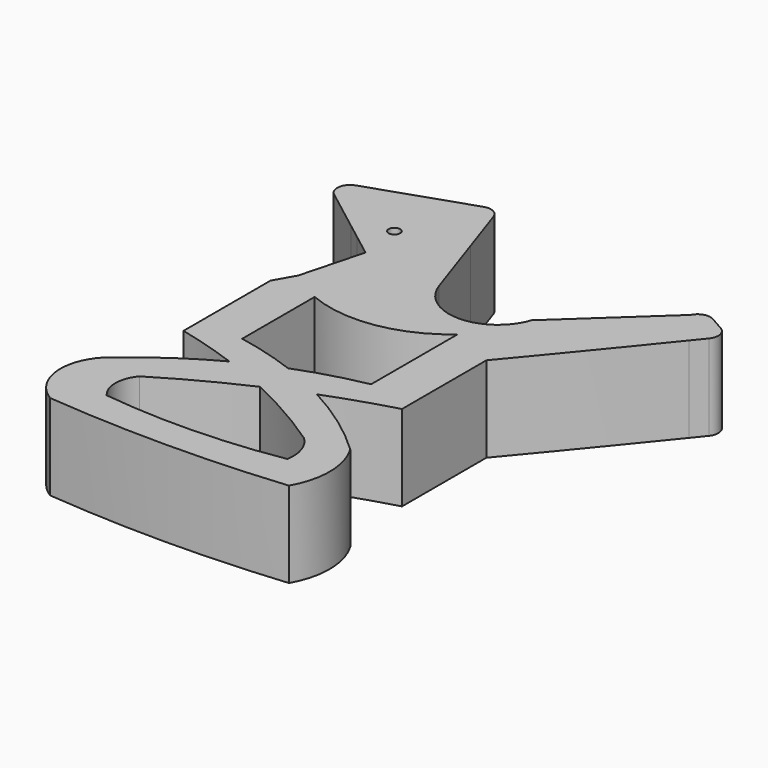
from build123d import *

# Parameters (mm, degrees)
F1_DEPTH = 25.4


with BuildPart() as f1:
    # F0 (on Top) → F1 (new body)
    with BuildSketch(Plane.XY):
        with BuildLine():
            ThreePointArc((-59.1107523799, 49.5368446501), (-61.6481766526, 46.5452847002), (-60.2000903929, 42.8996024515))
            Line((-60.2000903929, 42.8996024515), (-47.3238480687, 33.0717364155))
            Line((-47.3238480687, 33.0717364155), (-38.8923999974, 35.9275490176))
            ThreePointArc((-38.8923999974, 35.9275490176), (-38.5200626671, 38.7717193747), (-36.1004724001, 37.2310951352))
            ThreePointArc((-36.1004724001, 37.2310951352), (-36.1107927824, 37.0440430671), (-36.1416286435, 36.8592617474))
            Line((-36.1416286435, 36.8592617474), (-19.4805414172, 42.5025323296))
            Line((-19.4805414172, 42.5025323296), (-24.4742741518, 57.2459360816))
            ThreePointArc((-24.4742741518, 57.2459360816), (-26.3954934154, 59.4396204364), (-29.3051696679, 59.6322823499))
            Line((-29.3051696679, 59.6322823499), (-59.1107523799, 49.5368446501))
        make_face()
        with BuildLine():
            Line((-38.8923999974, 35.9275490176), (-47.3238480687, 33.0717364155))
            Line((-47.3238480687, 33.0717364155), (-42.6756189918, 29.5239488295))
            Line((-42.6756189918, 29.5239488295), (-17.9241616526, 37.907505627))
            Line((-17.9241616526, 37.907505627), (-19.4805414172, 42.5025323296))
            Line((-19.4805414172, 42.5025323296), (-36.1416286435, 36.8592617474))
            ThreePointArc((-36.1416286435, 36.8592617474), (-37.2552876391, 35.6206883909), (-38.8923999974, 35.9275490176))
        make_face()
        with BuildLine():
            Line((-17.9241616526, 37.907505627), (-42.6756189918, 29.5239488295))
            Line((-42.6756189918, 29.5239488295), (-36.3345149505, 24.6840646871))
            Line((-36.3345149505, 24.6840646871), (-41.3134286256, 5.9786473972))
            ThreePointArc((-41.3134286256, 5.9786473972), (-36.7132008564, 2.606335405), (-31.6395828713, 0))
            ThreePointArc((-31.6395828713, 0), (-12.0320170539, -2.3394482542), (5.8771688615, 5.9786473972))
            Line((5.8771688615, 5.9786473972), (19.1956014543, 0.00967121))
            ThreePointArc((19.1956014543, 0.00967121), (34.4581492923, 18.4761157552), (49.587438224, 37.0518945294))
            Line((49.587438224, 37.0518945294), (41.8655847635, 41.4393103907))
            Line((41.8655847635, 41.4393103907), (38.9125214018, 43.117186965))
            Line((38.9125214018, 43.1171869651), (41.8593864064, 47.2519499851))
            Line((41.8593864064, 47.2519499851), (14.8451968214, 22.2191433988))
            ThreePointArc((14.8451968214, 22.2191433988), (1.1174172166, 12.3750160433), (-12.6103623883, 22.2191433988))
            Line((-12.6103623883, 22.2191433988), (-17.9241616526, 37.907505627))
        make_face()
        with BuildLine():
            ThreePointArc((-31.6395828713, 0), (-36.7132008564, 2.606335405), (-41.3134286256, 5.9786473972))
            Line((-41.3134286256, 5.9786473972), (-44.7103866945, 0))
            Line((-44.7103866945, 0), (-44.7103866945, -32.1961882046))
            ThreePointArc((-44.7103866945, -32.1961882046), (-35.6981979706, -34.6212321144), (-26.8360574654, -37.5474667641))
            ThreePointArc((-26.8360574654, -37.5474667641), (-20.5610394294, -34.4552816286), (-14.112735744, -31.7429321219))
            ThreePointArc((-14.112735744, -31.7429321219), (-22.7734524474, -28.9208943273), (-31.6395828713, -26.8319610022))
            Line((-31.6395828713, -26.8319610022), (-31.6395828713, 0))
        make_face()
        with BuildLine():
            Line((19.1956014543, 0.00967121), (5.8771688615, 5.9786473972))
            Line((5.8771688615, 5.9786473972), (5.8771688615, -26.0057745091))
            ThreePointArc((5.8771688615, -26.0057745091), (-4.2452726756, -28.4301442134), (-14.112735744, -31.7429321219))
            ThreePointArc((-14.112735744, -31.7429321219), (-7.332536937, -34.533476308), (-0.7553169871, -37.7736013745))
            ThreePointArc((-0.7553169871, -37.7736013745), (9.143147591, -34.2583484987), (19.1956014543, -31.2112556035))
            Line((19.1956014543, -31.2112556035), (19.1956014543, 0.00967121))
        make_face()
        Polygon((41.9694184521, 47.4456064242), (41.8593864064, 47.2519499851), (38.9125214018, 43.1171869651), (41.8655847635, 41.4393103907), (45.162112145, 45.4186524008), align=None)
        with BuildLine():
            ThreePointArc((-0.7553169871, -37.7736013745), (-7.332536937, -34.533476308), (-14.112735744, -31.7429321219))
            ThreePointArc((-14.112735744, -31.7429321219), (-20.5610394294, -34.4552816286), (-26.8360574654, -37.5474667641))
            ThreePointArc((-26.8360574654, -37.5474667641), (-20.074389371, -40.1601770998), (-13.4328625364, -43.064747984))
            ThreePointArc((-13.4328625364, -43.064747984), (-7.1346825518, -40.3219146743), (-0.7553169871, -37.7736013745))
        make_face()
        with BuildLine():
            ThreePointArc((-13.4328625364, -43.064747984), (-20.074389371, -40.1601770998), (-26.8360574654, -37.5474667641))
            ThreePointArc((-26.8360574654, -37.5474667641), (-37.8079228806, -44.1596970981), (-47.9927124606, -51.9297345425))
            ThreePointArc((-47.9927124606, -51.9297345425), (-55.1060167541, -64.9103960311), (-47.7461889386, -77.7528882027))
            ThreePointArc((-47.7461889386, -77.7528882027), (-12.4874489881, -79.2604436558), (22.7598436177, -77.5054991245))
            ThreePointArc((22.7598436177, -77.5054991245), (25.753425112, -65.9683634877), (22.5124526769, -54.4982664287))
            ThreePointArc((22.5124526769, -54.4982664287), (11.4306480238, -45.3678662365), (-0.7553169871, -37.7736013745))
            ThreePointArc((-0.7553169871, -37.7736013745), (-7.1346825518, -40.3219146743), (-13.4328625364, -43.064747984))
        make_face()
        with BuildLine():
            ThreePointArc((-38.401431896, -56.3598381515), (-26.127337959, -49.3175486866), (-13.4328625364, -43.064747984))
            ThreePointArc((-13.4328625364, -43.064747984), (-1.1655138535, -49.3811780371), (10.536660869, -56.691734725))
            ThreePointArc((10.536660869, -56.691734725), (13.6866926882, -61.5483388363), (14.1682401614, -67.3169969113))
            ThreePointArc((14.1682401614, -67.3169969113), (-12.073405036, -69.8014865929), (-38.401431896, -68.5241325674))
            ThreePointArc((-38.401431896, -68.5241325674), (-40.6616602948, -62.4419853594), (-38.401431896, -56.3598381515))
        make_face(mode=Mode.SUBTRACT)
        with BuildLine():
            ThreePointArc((47.1642236558, 48.8760605112), (44.2705643123, 49.2367128523), (41.9694184521, 47.4456064242))
            Line((41.9694184521, 47.4456064242), (45.162112145, 45.4186524008))
            Line((45.162112145, 45.4186524008), (52.5536226058, 40.7259842943))
            ThreePointArc((52.5536226058, 40.7259842943), (53.3304416036, 43.828541799), (51.4696137823, 46.4298166105))
            Line((51.4696137823, 46.4298166105), (47.1642236558, 48.8760605112))
        make_face()
        with BuildLine():
            Line((41.8655847635, 41.4393103907), (49.587438224, 37.0518945294))
            ThreePointArc((49.587438224, 37.0518945294), (51.0711817018, 38.8884136117), (52.5536226058, 40.7259842943))
            Line((52.5536226058, 40.7259842943), (45.162112145, 45.4186524008))
            Line((45.162112145, 45.4186524008), (41.8655847635, 41.4393103907))
        make_face()
    extrude(amount=F1_DEPTH)


solid = f1.part
